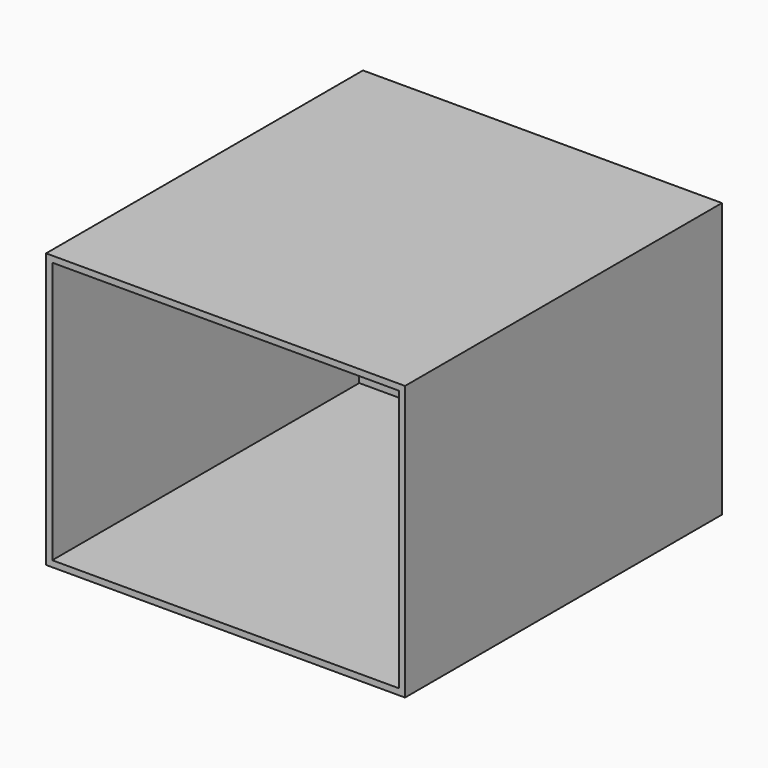
from build123d import *

# Parameters (mm, degrees)
F0_W     = 736.6
F0_H     = 562.991
F0_W_2   = 711.2
F0_H_2   = 537.591
F1_DEPTH = 812.8
F2_DEPTH = 787.4


with BuildPart() as f1:
    # F0 (on Front) → F1 (new body)
    with BuildSketch(Plane.XZ):
        Rectangle(F0_W, F0_H)
        Rectangle(F0_W_2, F0_H_2, mode=Mode.SUBTRACT)
        Rectangle(F0_W_2, F0_H_2)
    extrude(amount=-F1_DEPTH)

    # F0 (on Front) → F2 (cut)
    with BuildSketch(Plane.XZ):
        Rectangle(F0_W_2, F0_H_2)
    extrude(amount=-F2_DEPTH, mode=Mode.SUBTRACT)


solid = f1.part
